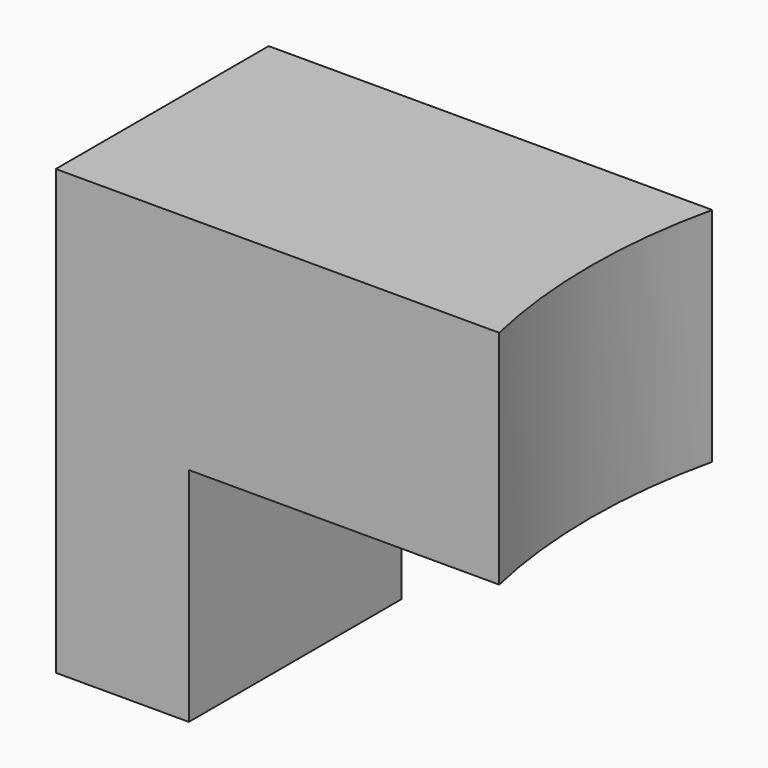
from build123d import *

# Parameters (mm, degrees)
F1_DEPTH = 5
F2_W     = 3
F2_H     = 5
F3_DEPTH = 6


with BuildPart() as f1:
    # F0 (on Top) → F1 (new body)
    with BuildSketch(Plane.XY):
        with BuildLine():
            ThreePointArc((9.997487, 0), (9.66119, 3.000141), (10, 6))
            Line((10, 6), (0, 6))
            Line((0, 6), (0, 0))
            Line((0, 0), (9.997487, 0))
        make_face()
    extrude(amount=F1_DEPTH)

    # F2 (on face) → F3 (join)
    with BuildSketch(Plane.XZ):
        with Locations((1.5, -2.5)):
            Rectangle(F2_W, F2_H)
    extrude(amount=-F3_DEPTH)


solid = f1.part
